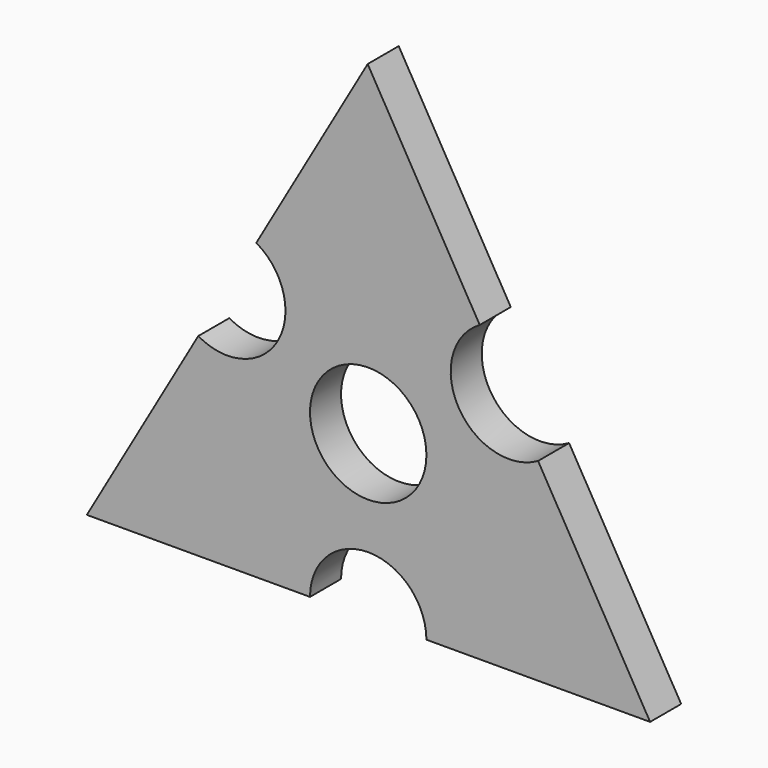
from build123d import *

# Parameters (mm, degrees)
F0_R     = 7.62
F1_DEPTH = 5.08


with BuildPart() as f1:
    # F0 (on Front) → F1 (new body)
    with BuildSketch(Plane.XZ):
        with BuildLine():
            Line((7.61999, -21.275166), (36.905502, -21.227668))
            Line((36.905502, -21.227668), (22.238923, 4.080709))
            ThreePointArc((22.238923, 4.080709), (11.8253, 6.852936), (14.597528, 17.26656))
            Line((14.597528, 17.26656), (-0.069051, 42.574937))
            Line((-0.069051, 42.574937), (-14.653459, 17.219118))
            ThreePointArc((-14.653459, 17.219118), (-11.856729, 14.429184), (-10.832751, 10.613834))
            ThreePointArc((-10.832751, 10.613834), (-14.637401, 4.017812), (-22.252043, 4.00855))
            Line((-22.252043, 4.00855), (-36.836451, -21.347268))
            Line((-36.836451, -21.347268), (-7.61999, -21.299883))
            ThreePointArc((-7.61999, -21.299883), (-0.012359, -13.667534), (7.61999, -21.275166))
        make_face()
        Circle(F0_R, mode=Mode.SUBTRACT)
    extrude(amount=F1_DEPTH)


solid = f1.part
